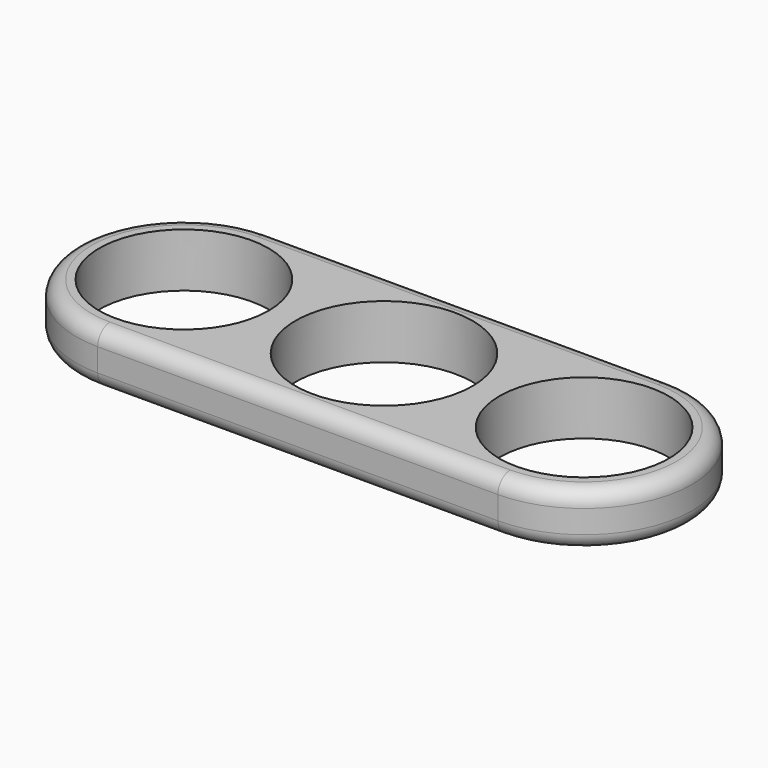
from build123d import *

# Parameters (mm, degrees)
F0_R     = 11.5
F0_R_2   = 11
F1_DEPTH = 7
F2_R     = 2


with BuildPart() as f1:
    # F0 (on Top) → F1 (new body)
    with BuildSketch(Plane.XY):
        Circle(F0_R)
        with BuildLine():
            ThreePointArc((37, 0), (26, 11), (15, 0))
            ThreePointArc((15, 0), (26, -11), (37, 0))
        make_face()
        with BuildLine():
            Line((-26, -14), (26, -14))
            ThreePointArc((26, -14), (40, 0), (26, 14))
            Line((26, 14), (-26, 14))
            ThreePointArc((-26, 14), (-40, 0), (-26, -14))
        make_face()
        with Locations((-26, 0)):
            Circle(F0_R_2, mode=Mode.SUBTRACT)
        Circle(F0_R, mode=Mode.SUBTRACT)
        with BuildLine():
            ThreePointArc((37, 0), (26, -11), (15, 0))
            ThreePointArc((15, 0), (26, 11), (37, 0))
        make_face(mode=Mode.SUBTRACT)
    extrude(amount=F1_DEPTH)

    # F2
    f2_edges = [f1.edges().sort_by_distance(p)[0] for p in [
        (0, 14, 7),
        (40, 0, 7),
        (0, -14, 7),
        (-40, 0, 7),
        (40, 0, 0),
        (0, 14, 0),
        (-40, 0, 0),
        (0, -14, 0),
    ]]
    fillet(f2_edges, radius=F2_R)


solid = f1.part
